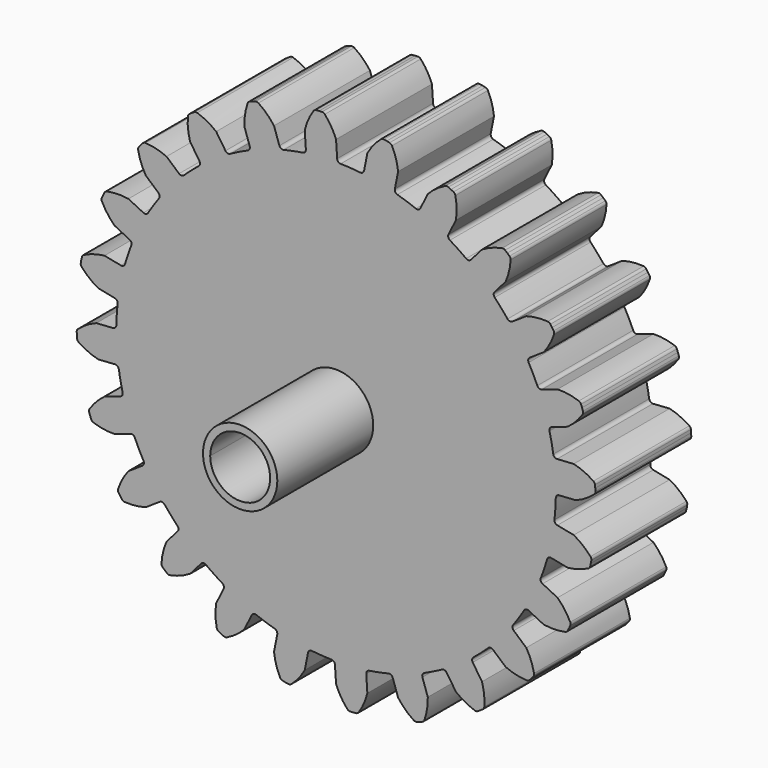
from build123d import *

# Parameters (mm, degrees)
F1_DEPTH = 12.7
F2_R     = 3.937
F2_R_2   = 3.175
F3_DEPTH = 12.7
F5_D     = 6.35


with BuildPart() as f1:
    # F0 (on Front) → F1 (new body)
    with BuildSketch(Plane.XZ):
        with BuildLine():
            ThreePointArc((-3.19963, 23.416917), (-3.28278, 23.153394), (-3.522178, 23.015383))
            ThreePointArc((-3.522178, 23.015383), (-4.542353, 22.835951), (-5.553537, 22.611321))
            ThreePointArc((-5.553537, 22.611321), (-5.827527, 22.647213), (-6.005194, 22.858856))
            Line((-6.005194, 22.858856), (-6.574004, 24.534516))
            ThreePointArc((-6.574004, 24.534516), (-7.329727, 25.397243), (-8.228309, 26.109959))
            ThreePointArc((-8.228309, 26.109959), (-8.385766, 26.168812), (-8.553225, 26.154178))
            Line((-8.553225, 26.154178), (-8.846322, 26.060423))
            Line((-8.846322, 26.060423), (-9.135926, 25.956378))
            ThreePointArc((-9.135926, 25.956378), (-9.277687, 25.866045), (-9.366779, 25.7235))
            ThreePointArc((-9.366779, 25.7235), (-9.645798, 24.611042), (-9.720159, 23.46654))
            Line((-9.720159, 23.46654), (-9.151349, 21.79088))
            ThreePointArc((-9.151349, 21.79088), (-9.163462, 21.514815), (-9.358983, 21.319546))
            ThreePointArc((-9.358983, 21.319546), (-10.297955, 20.882187), (-11.216546, 20.403498))
            ThreePointArc((-11.216546, 20.403498), (-11.490489, 20.367253), (-11.716879, 20.525701))
            Line((-11.716879, 20.525701), (-12.7, 21.997045))
            ThreePointArc((-12.7, 21.997045), (-13.653263, 22.63478), (-14.705691, 23.09064))
            ThreePointArc((-14.705691, 23.09064), (-14.873015, 23.106735), (-15.03098, 23.049259))
            Line((-15.03098, 23.049259), (-15.289825, 22.88284))
            Line((-15.289825, 22.88284), (-15.542632, 22.707384))
            ThreePointArc((-15.542632, 22.707384), (-15.656183, 22.583439), (-15.705345, 22.422693))
            ThreePointArc((-15.705345, 22.422693), (-15.686932, 21.275925), (-15.46254, 20.151175))
            Line((-15.46254, 20.151175), (-14.479419, 18.67983))
            ThreePointArc((-14.479419, 18.67983), (-14.419668, 18.410037), (-14.557988, 18.170817))
            ThreePointArc((-14.557988, 18.170817), (-15.351768, 17.505337), (-16.115165, 16.80521))
            ThreePointArc((-16.115165, 16.80521), (-16.370393, 16.699298), (-16.630078, 16.793753))
            Line((-16.630078, 16.793753), (-17.960512, 17.960512))
            ThreePointArc((-17.960512, 17.960512), (-19.046351, 18.329794), (-20.180904, 18.497733))
            ThreePointArc((-20.180904, 18.497733), (-20.346693, 18.469973), (-20.484399, 18.373571))
            Line((-20.484399, 18.373571), (-20.691351, 18.145828))
            Line((-20.691351, 18.145828), (-20.890133, 17.91092))
            ThreePointArc((-20.890133, 17.91092), (-20.967736, 17.761809), (-20.973619, 17.593815))
            ThreePointArc((-20.973619, 17.593815), (-20.659028, 16.490889), (-20.151175, 15.46254))
            Line((-20.151175, 15.46254), (-18.820741, 14.295781))
            ThreePointArc((-18.820741, 14.295781), (-18.693198, 14.050646), (-18.76489, 13.783777))
            ThreePointArc((-18.76489, 13.783777), (-19.359384, 12.935527), (-19.915562, 12.061674))
            ThreePointArc((-19.915562, 12.061674), (-20.134681, 11.893314), (-20.409965, 11.917339))
            Line((-20.409965, 11.917339), (-21.997045, 12.7))
            ThreePointArc((-21.997045, 12.7), (-23.141462, 12.775663), (-24.280822, 12.644235))
            ThreePointArc((-24.280822, 12.644235), (-24.433777, 12.574512), (-24.54184, 12.445754))
            Line((-24.54184, 12.445754), (-24.682796, 12.172208))
            Line((-24.682796, 12.172208), (-24.814006, 11.893856))
            ThreePointArc((-24.814006, 11.893856), (-24.850372, 11.72974), (-24.812574, 11.565949))
            ThreePointArc((-24.812574, 11.565949), (-24.223244, 10.582025), (-23.46654, 9.720159))
            Line((-23.46654, 9.720159), (-21.87946, 8.937498))
            ThreePointArc((-21.87946, 8.937498), (-21.692818, 8.733726), (-21.692996, 8.457396))
            ThreePointArc((-21.692996, 8.457396), (-22.04769, 7.484182), (-22.358747, 6.496156))
            ThreePointArc((-22.358747, 6.496156), (-22.526825, 6.27682), (-22.798947, 6.228778))
            Line((-22.798947, 6.228778), (-24.534516, 6.574004))
            ThreePointArc((-24.534516, 6.574004), (-25.659521, 6.350892), (-26.726042, 5.929054))
            ThreePointArc((-26.726042, 5.929054), (-26.855739, 5.822119), (-26.926795, 5.669779))
            Line((-26.926795, 5.669779), (-26.99215, 5.369072))
            Line((-26.99215, 5.369072), (-27.046846, 5.066245))
            ThreePointArc((-27.046846, 5.066245), (-27.039496, 4.89831), (-26.960594, 4.749882))
            ThreePointArc((-26.960594, 4.749882), (-26.136687, 3.952015), (-25.182699, 3.315365))
            Line((-25.182699, 3.315365), (-23.44713, 2.970139))
            ThreePointArc((-23.44713, 2.970139), (-23.214108, 2.821617), (-23.14276, 2.554656))
            ThreePointArc((-23.14276, 2.554656), (-23.233482, 1.522803), (-23.27822, 0.487935))
            ThreePointArc((-23.27822, 0.487935), (-23.383803, 0.232571), (-23.634218, 0.115735))
            Line((-23.634218, 0.115735), (-25.4, 0))
            ThreePointArc((-25.4, 0), (-26.428925, -0.506682), (-27.349927, -1.190182))
            ThreePointArc((-27.349927, -1.190182), (-27.447527, -1.327041), (-27.476734, -1.492581))
            Line((-27.476734, -1.492581), (-27.462033, -1.799957))
            Line((-27.462033, -1.799957), (-27.436488, -2.106622))
            ThreePointArc((-27.436488, -2.106622), (-27.385923, -2.266933), (-27.271294, -2.389882))
            ThreePointArc((-27.271294, -2.389882), (-26.268958, -2.947319), (-25.182699, -3.315365))
            Line((-25.182699, -3.315365), (-23.416917, -3.19963))
            ThreePointArc((-23.416917, -3.19963), (-23.153394, -3.28278), (-23.015383, -3.522178))
            ThreePointArc((-23.015383, -3.522178), (-22.835951, -4.542353), (-22.611321, -5.553537))
            ThreePointArc((-22.611321, -5.553537), (-22.647213, -5.827527), (-22.858856, -6.005194))
            Line((-22.858856, -6.005194), (-24.534516, -6.574004))
            ThreePointArc((-24.534516, -6.574004), (-25.397243, -7.329727), (-26.109959, -8.228309))
            ThreePointArc((-26.109959, -8.228309), (-26.168812, -8.385766), (-26.154178, -8.553225))
            Line((-26.154178, -8.553225), (-26.060423, -8.846322))
            Line((-26.060423, -8.846322), (-25.956378, -9.135926))
            ThreePointArc((-25.956378, -9.135926), (-25.866045, -9.277687), (-25.7235, -9.366779))
            ThreePointArc((-25.7235, -9.366779), (-24.611042, -9.645798), (-23.46654, -9.720159))
            Line((-23.46654, -9.720159), (-21.79088, -9.151349))
            ThreePointArc((-21.79088, -9.151349), (-21.514815, -9.163462), (-21.319546, -9.358983))
            ThreePointArc((-21.319546, -9.358983), (-20.882187, -10.297955), (-20.403498, -11.216546))
            ThreePointArc((-20.403498, -11.216546), (-20.367253, -11.490489), (-20.525701, -11.716879))
            Line((-20.525701, -11.716879), (-21.997045, -12.7))
            ThreePointArc((-21.997045, -12.7), (-22.63478, -13.653263), (-23.09064, -14.705691))
            ThreePointArc((-23.09064, -14.705691), (-23.106735, -14.873015), (-23.049259, -15.03098))
            Line((-23.049259, -15.03098), (-22.88284, -15.289825))
            Line((-22.88284, -15.289825), (-22.707384, -15.542632))
            ThreePointArc((-22.707384, -15.542632), (-22.583439, -15.656183), (-22.422693, -15.705345))
            ThreePointArc((-22.422693, -15.705345), (-21.275925, -15.686932), (-20.151175, -15.46254))
            Line((-20.151175, -15.46254), (-18.67983, -14.479419))
            ThreePointArc((-18.67983, -14.479419), (-18.410037, -14.419668), (-18.170817, -14.557988))
            ThreePointArc((-18.170817, -14.557988), (-17.505337, -15.351768), (-16.80521, -16.115165))
            ThreePointArc((-16.80521, -16.115165), (-16.699298, -16.370393), (-16.793753, -16.630078))
            Line((-16.793753, -16.630078), (-17.960512, -17.960512))
            ThreePointArc((-17.960512, -17.960512), (-18.329794, -19.046351), (-18.497733, -20.180904))
            ThreePointArc((-18.497733, -20.180904), (-18.469973, -20.346693), (-18.373571, -20.484399))
            Line((-18.373571, -20.484399), (-18.145828, -20.691351))
            Line((-18.145828, -20.691351), (-17.91092, -20.890133))
            ThreePointArc((-17.91092, -20.890133), (-17.761809, -20.967736), (-17.593815, -20.973619))
            ThreePointArc((-17.593815, -20.973619), (-16.490889, -20.659028), (-15.46254, -20.151175))
            Line((-15.46254, -20.151175), (-14.295781, -18.820741))
            ThreePointArc((-14.295781, -18.820741), (-14.050646, -18.693198), (-13.783777, -18.76489))
            ThreePointArc((-13.783777, -18.76489), (-12.935527, -19.359384), (-12.061674, -19.915562))
            ThreePointArc((-12.061674, -19.915562), (-10.297955, -20.882187), (-8.457396, -21.692996))
            ThreePointArc((-8.457396, -21.692996), (-7.484182, -22.04769), (-6.496156, -22.358747))
            ThreePointArc((-6.496156, -22.358747), (-6.27682, -22.526825), (-6.228778, -22.798947))
            Line((-6.228778, -22.798947), (-6.574004, -24.534516))
            ThreePointArc((-6.574004, -24.534516), (-6.350892, -25.659521), (-5.929054, -26.726042))
            ThreePointArc((-5.929054, -26.726042), (-5.822119, -26.855739), (-5.669779, -26.926795))
            Line((-5.669779, -26.926795), (-5.369072, -26.99215))
            Line((-5.369072, -26.99215), (-5.066245, -27.046846))
            ThreePointArc((-5.066245, -27.046846), (-4.89831, -27.039496), (-4.749882, -26.960594))
            ThreePointArc((-4.749882, -26.960594), (-3.952015, -26.136687), (-3.315365, -25.182699))
            Line((-3.315365, -25.182699), (-2.970139, -23.44713))
            ThreePointArc((-2.970139, -23.44713), (-2.821617, -23.214108), (-2.554656, -23.14276))
            ThreePointArc((-2.554656, -23.14276), (-1.522803, -23.233482), (-0.487935, -23.27822))
            ThreePointArc((-0.487935, -23.27822), (-0.232571, -23.383803), (-0.115735, -23.634218))
            Line((-0.115735, -23.634218), (0, -25.4))
            ThreePointArc((0, -25.4), (0.506682, -26.428925), (1.190182, -27.349927))
            ThreePointArc((1.190182, -27.349927), (1.327041, -27.447527), (1.492581, -27.476734))
            Line((1.492581, -27.476734), (1.799957, -27.462033))
            Line((1.799957, -27.462033), (2.106622, -27.436488))
            ThreePointArc((2.106622, -27.436488), (2.266933, -27.385923), (2.389882, -27.271294))
            ThreePointArc((2.389882, -27.271294), (2.947319, -26.268958), (3.315365, -25.182699))
            Line((3.315365, -25.182699), (3.19963, -23.416917))
            ThreePointArc((3.19963, -23.416917), (3.28278, -23.153394), (3.522178, -23.015383))
            ThreePointArc((3.522178, -23.015383), (4.542353, -22.835951), (5.553537, -22.611321))
            ThreePointArc((5.553537, -22.611321), (5.827527, -22.647213), (6.005194, -22.858856))
            Line((6.005194, -22.858856), (6.574004, -24.534516))
            ThreePointArc((6.574004, -24.534516), (7.329727, -25.397243), (8.228309, -26.109959))
            ThreePointArc((8.228309, -26.109959), (8.385766, -26.168812), (8.553225, -26.154178))
            Line((8.553225, -26.154178), (8.846322, -26.060423))
            Line((8.846322, -26.060423), (9.135926, -25.956378))
            ThreePointArc((9.135926, -25.956378), (9.277687, -25.866045), (9.366779, -25.7235))
            ThreePointArc((9.366779, -25.7235), (9.645798, -24.611042), (9.720159, -23.46654))
            Line((9.720159, -23.46654), (9.151349, -21.79088))
            ThreePointArc((9.151349, -21.79088), (9.163462, -21.514815), (9.358983, -21.319546))
            ThreePointArc((9.358983, -21.319546), (10.297955, -20.882187), (11.216546, -20.403498))
            ThreePointArc((11.216546, -20.403498), (11.490489, -20.367253), (11.716879, -20.525701))
            Line((11.716879, -20.525701), (12.7, -21.997045))
            ThreePointArc((12.7, -21.997045), (13.653263, -22.63478), (14.705691, -23.09064))
            ThreePointArc((14.705691, -23.09064), (14.873015, -23.106735), (15.03098, -23.049259))
            Line((15.03098, -23.049259), (15.289825, -22.88284))
            Line((15.289825, -22.88284), (15.542632, -22.707384))
            ThreePointArc((15.542632, -22.707384), (15.656183, -22.583439), (15.705345, -22.422693))
            ThreePointArc((15.705345, -22.422693), (15.686932, -21.275925), (15.46254, -20.151175))
            Line((15.46254, -20.151175), (14.479419, -18.67983))
            ThreePointArc((14.479419, -18.67983), (14.419668, -18.410037), (14.557988, -18.170817))
            ThreePointArc((14.557988, -18.170817), (15.351768, -17.505337), (16.115165, -16.80521))
            ThreePointArc((16.115165, -16.80521), (16.370393, -16.699298), (16.630078, -16.793753))
            Line((16.630078, -16.793753), (17.960512, -17.960512))
            ThreePointArc((17.960512, -17.960512), (19.046351, -18.329794), (20.180904, -18.497733))
            ThreePointArc((20.180904, -18.497733), (20.346693, -18.469973), (20.484399, -18.373571))
            Line((20.484399, -18.373571), (20.691351, -18.145828))
            Line((20.691351, -18.145828), (20.890133, -17.91092))
            ThreePointArc((20.890133, -17.91092), (20.967736, -17.761809), (20.973619, -17.593815))
            ThreePointArc((20.973619, -17.593815), (20.659028, -16.490889), (20.151175, -15.46254))
            Line((20.151175, -15.46254), (18.820741, -14.295781))
            ThreePointArc((18.820741, -14.295781), (18.693198, -14.050646), (18.76489, -13.783777))
            ThreePointArc((18.76489, -13.783777), (19.359384, -12.935527), (19.915562, -12.061674))
            ThreePointArc((19.915562, -12.061674), (20.134681, -11.893314), (20.409965, -11.917339))
            Line((20.409965, -11.917339), (21.997045, -12.7))
            ThreePointArc((21.997045, -12.7), (23.141462, -12.775663), (24.280822, -12.644235))
            ThreePointArc((24.280822, -12.644235), (24.433777, -12.574512), (24.54184, -12.445754))
            Line((24.54184, -12.445754), (24.682796, -12.172208))
            Line((24.682796, -12.172208), (24.814006, -11.893856))
            ThreePointArc((24.814006, -11.893856), (24.850372, -11.72974), (24.812574, -11.565949))
            ThreePointArc((24.812574, -11.565949), (24.223244, -10.582025), (23.46654, -9.720159))
            Line((23.46654, -9.720159), (21.87946, -8.937498))
            ThreePointArc((21.87946, -8.937498), (21.692818, -8.733726), (21.692996, -8.457396))
            ThreePointArc((21.692996, -8.457396), (22.04769, -7.484182), (22.358747, -6.496156))
            ThreePointArc((22.358747, -6.496156), (22.526825, -6.27682), (22.798947, -6.228778))
            Line((22.798947, -6.228778), (24.534516, -6.574004))
            ThreePointArc((24.534516, -6.574004), (25.659521, -6.350892), (26.726042, -5.929054))
            ThreePointArc((26.726042, -5.929054), (26.855739, -5.822119), (26.926795, -5.669779))
            Line((26.926795, -5.669779), (26.99215, -5.369072))
            Line((26.99215, -5.369072), (27.046846, -5.066245))
            ThreePointArc((27.046846, -5.066245), (27.039496, -4.89831), (26.960594, -4.749882))
            ThreePointArc((26.960594, -4.749882), (26.136687, -3.952015), (25.182699, -3.315365))
            Line((25.182699, -3.315365), (23.44713, -2.970139))
            ThreePointArc((23.44713, -2.970139), (23.214108, -2.821617), (23.14276, -2.554656))
            ThreePointArc((23.14276, -2.554656), (23.233482, -1.522803), (23.27822, -0.487935))
            ThreePointArc((23.27822, -0.487935), (23.383803, -0.232571), (23.634218, -0.115735))
            Line((23.634218, -0.115735), (25.4, 0))
            ThreePointArc((25.4, 0), (26.428925, 0.506682), (27.349927, 1.190182))
            ThreePointArc((27.349927, 1.190182), (27.447527, 1.327041), (27.476734, 1.492581))
            Line((27.476734, 1.492581), (27.462033, 1.799957))
            Line((27.462033, 1.799957), (27.436488, 2.106622))
            ThreePointArc((27.436488, 2.106622), (27.385923, 2.266933), (27.271294, 2.389882))
            ThreePointArc((27.271294, 2.389882), (26.268958, 2.947319), (25.182699, 3.315365))
            Line((25.182699, 3.315365), (23.416917, 3.19963))
            ThreePointArc((23.416917, 3.19963), (23.153394, 3.28278), (23.015383, 3.522178))
            ThreePointArc((23.015383, 3.522178), (22.835951, 4.542353), (22.611321, 5.553537))
            ThreePointArc((22.611321, 5.553537), (22.647213, 5.827527), (22.858856, 6.005194))
            Line((22.858856, 6.005194), (24.534516, 6.574004))
            ThreePointArc((24.534516, 6.574004), (25.397243, 7.329727), (26.109959, 8.228309))
            ThreePointArc((26.109959, 8.228309), (26.168812, 8.385766), (26.154178, 8.553225))
            Line((26.154178, 8.553225), (26.060423, 8.846322))
            Line((26.060423, 8.846322), (25.956378, 9.135926))
            ThreePointArc((25.956378, 9.135926), (25.866045, 9.277687), (25.7235, 9.366779))
            ThreePointArc((25.7235, 9.366779), (24.611042, 9.645798), (23.46654, 9.720159))
            Line((23.46654, 9.720159), (21.79088, 9.151349))
            ThreePointArc((21.79088, 9.151349), (21.514815, 9.163462), (21.319546, 9.358983))
            ThreePointArc((21.319546, 9.358983), (20.882187, 10.297955), (20.403498, 11.216546))
            ThreePointArc((20.403498, 11.216546), (20.367253, 11.490489), (20.525701, 11.716879))
            Line((20.525701, 11.716879), (21.997045, 12.7))
            ThreePointArc((21.997045, 12.7), (22.63478, 13.653263), (23.09064, 14.705691))
            ThreePointArc((23.09064, 14.705691), (23.106735, 14.873015), (23.049259, 15.03098))
            Line((23.049259, 15.03098), (22.88284, 15.289825))
            Line((22.88284, 15.289825), (22.707384, 15.542632))
            ThreePointArc((22.707384, 15.542632), (22.583439, 15.656183), (22.422693, 15.705345))
            ThreePointArc((22.422693, 15.705345), (21.275925, 15.686932), (20.151175, 15.46254))
            Line((20.151175, 15.46254), (18.67983, 14.479419))
            ThreePointArc((18.67983, 14.479419), (18.410037, 14.419668), (18.170817, 14.557988))
            ThreePointArc((18.170817, 14.557988), (17.505337, 15.351768), (16.80521, 16.115165))
            ThreePointArc((16.80521, 16.115165), (16.699298, 16.370393), (16.793753, 16.630078))
            Line((16.793753, 16.630078), (17.960512, 17.960512))
            ThreePointArc((17.960512, 17.960512), (18.329794, 19.046351), (18.497733, 20.180904))
            ThreePointArc((18.497733, 20.180904), (18.469973, 20.346693), (18.373571, 20.484399))
            Line((18.373571, 20.484399), (18.145828, 20.691351))
            Line((18.145828, 20.691351), (17.91092, 20.890133))
            ThreePointArc((17.91092, 20.890133), (17.761809, 20.967736), (17.593815, 20.973619))
            ThreePointArc((17.593815, 20.973619), (16.490889, 20.659028), (15.46254, 20.151175))
            Line((15.46254, 20.151175), (14.295781, 18.820741))
            ThreePointArc((14.295781, 18.820741), (14.050646, 18.693198), (13.783777, 18.76489))
            ThreePointArc((13.783777, 18.76489), (12.935527, 19.359384), (12.061674, 19.915562))
            ThreePointArc((12.061674, 19.915562), (11.893314, 20.134681), (11.917339, 20.409965))
            Line((11.917339, 20.409965), (12.7, 21.997045))
            ThreePointArc((12.7, 21.997045), (12.775663, 23.141462), (12.644235, 24.280822))
            ThreePointArc((12.644235, 24.280822), (12.574512, 24.433777), (12.445754, 24.54184))
            Line((12.445754, 24.54184), (12.172208, 24.682796))
            Line((12.172208, 24.682796), (11.893856, 24.814006))
            ThreePointArc((11.893856, 24.814006), (11.72974, 24.850372), (11.565949, 24.812574))
            ThreePointArc((11.565949, 24.812574), (10.582025, 24.223244), (9.720159, 23.46654))
            Line((9.720159, 23.46654), (8.937498, 21.87946))
            ThreePointArc((8.937498, 21.87946), (8.733726, 21.692818), (8.457396, 21.692996))
            ThreePointArc((8.457396, 21.692996), (7.484182, 22.04769), (6.496156, 22.358747))
            ThreePointArc((6.496156, 22.358747), (6.27682, 22.526825), (6.228778, 22.798947))
            Line((6.228778, 22.798947), (6.574004, 24.534516))
            ThreePointArc((6.574004, 24.534516), (6.350892, 25.659521), (5.929054, 26.726042))
            ThreePointArc((5.929054, 26.726042), (5.822119, 26.855739), (5.669779, 26.926795))
            Line((5.669779, 26.926795), (5.369072, 26.99215))
            Line((5.369072, 26.99215), (5.066245, 27.046846))
            ThreePointArc((5.066245, 27.046846), (4.89831, 27.039496), (4.749882, 26.960594))
            ThreePointArc((4.749882, 26.960594), (3.952015, 26.136687), (3.315365, 25.182699))
            Line((3.315365, 25.182699), (2.970139, 23.44713))
            ThreePointArc((2.970139, 23.44713), (2.821617, 23.214108), (2.554656, 23.14276))
            ThreePointArc((2.554656, 23.14276), (1.522803, 23.233482), (0.487935, 23.27822))
            ThreePointArc((0.487935, 23.27822), (0.232571, 23.383803), (0.115735, 23.634218))
            Line((0.115735, 23.634218), (0, 25.4))
            ThreePointArc((0, 25.4), (-0.506682, 26.428925), (-1.190182, 27.349927))
            ThreePointArc((-1.190182, 27.349927), (-1.327041, 27.447527), (-1.492581, 27.476734))
            Line((-1.492581, 27.476734), (-1.799957, 27.462033))
            Line((-1.799957, 27.462033), (-2.106622, 27.436488))
            ThreePointArc((-2.106622, 27.436488), (-2.266933, 27.385923), (-2.389882, 27.271294))
            ThreePointArc((-2.389882, 27.271294), (-2.947319, 26.268958), (-3.315365, 25.182699))
            Line((-3.315365, 25.182699), (-3.19963, 23.416917))
        make_face()
        with BuildLine():
            ThreePointArc((-8.457396, -21.692996), (-10.297955, -20.882187), (-12.061674, -19.915562))
            ThreePointArc((-12.061674, -19.915562), (-11.893314, -20.134681), (-11.917339, -20.409965))
            Line((-11.917339, -20.409965), (-12.7, -21.997045))
            ThreePointArc((-12.7, -21.997045), (-12.775663, -23.141462), (-12.644235, -24.280822))
            ThreePointArc((-12.644235, -24.280822), (-12.574512, -24.433777), (-12.445754, -24.54184))
            Line((-12.445754, -24.54184), (-12.172208, -24.682796))
            Line((-12.172208, -24.682796), (-11.893856, -24.814006))
            ThreePointArc((-11.893856, -24.814006), (-11.72974, -24.850372), (-11.565949, -24.812574))
            ThreePointArc((-11.565949, -24.812574), (-10.582025, -24.223244), (-9.720159, -23.46654))
            Line((-9.720159, -23.46654), (-8.937498, -21.87946))
            ThreePointArc((-8.937498, -21.87946), (-8.733726, -21.692818), (-8.457396, -21.692996))
        make_face()
    extrude(amount=F1_DEPTH)

    # F2 (on face) → F3 (join)
    with BuildSketch(Plane.XZ.offset(12.7)):
        Circle(F2_R)
        Circle(F2_R_2, mode=Mode.SUBTRACT)
    extrude(amount=F3_DEPTH)

    # F5 (through all)
    with Locations(Plane.XZ.offset(12.7)):
        with Locations((0, 0)):
            Hole(F5_D / 2)


solid = f1.part
